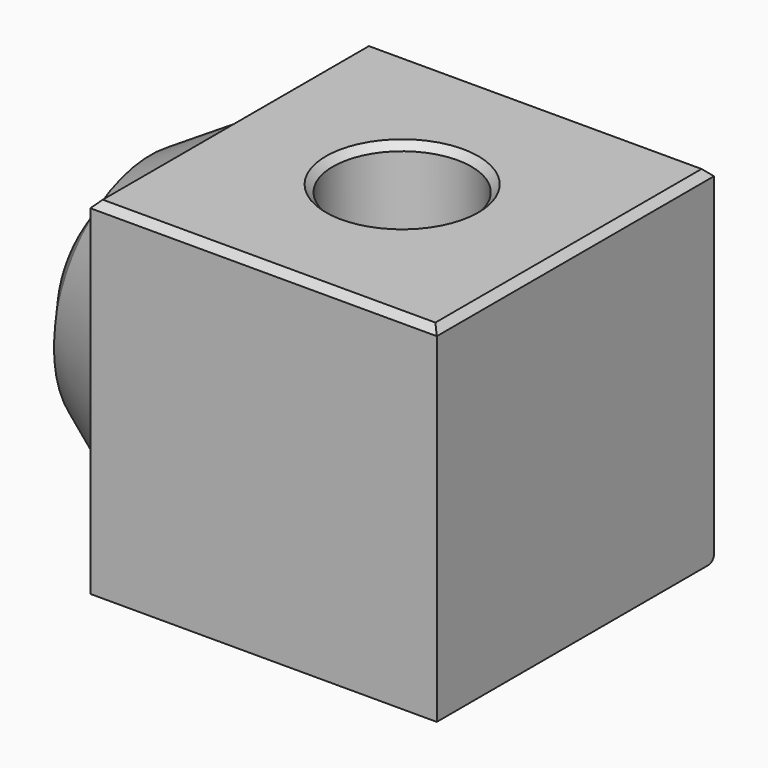
from build123d import *

# Parameters (mm, degrees)
F0_W     = 1270
F0_H     = 1270
F1_DEPTH = 1270
F2_R     = 254
F3_DEPTH = 1270.001
F4_SIZE  = 25.4
F5_R     = 25.4
F6_R     = 25.4


with BuildPart() as f1:
    # F0 (on Top) → F1 (new body)
    with BuildSketch(Plane.XY):
        Rectangle(F0_W, F0_H)
    extrude(amount=F1_DEPTH)

    # F2 (on face) → F3 (cut, through all)
    with BuildSketch(Plane.XY.offset(1270)):
        Circle(F2_R)
    extrude(amount=-F3_DEPTH, mode=Mode.SUBTRACT)

    # F4
    f4_edges = [f1.edges().sort_by_distance(p)[0] for p in [
        (0, -635, 1270),
        (-635, 0, 1270),
        (635, 0, 1270),
        (0, 635, 1270),
        (-254, 0, 1270),
    ]]
    chamfer(f4_edges, length=F4_SIZE)

    # F5
    f5_edges = [f1.edges().sort_by_distance(p)[0] for p in [
        (-254, 0, 0),
    ]]
    fillet(f5_edges, radius=F5_R)

    # F6
    f6_edges = [f1.edges().sort_by_distance(p)[0] for p in [
        (0, 635, 0),
    ]]
    fillet(f6_edges, radius=F6_R)

    # F7 (on Front) → F8 (revolve)
    with BuildSketch(Plane.XZ):
        Polygon((-635, 0), (-635, 622.3), (-1143, 622.3), (-1050.3706932068, 354.807138443), (-922.2957491875, 179.8755228519), align=None)
    revolve(axis=Axis((-889, 0, 622.3), (-1, 0, 0)))


solid = f1.part
